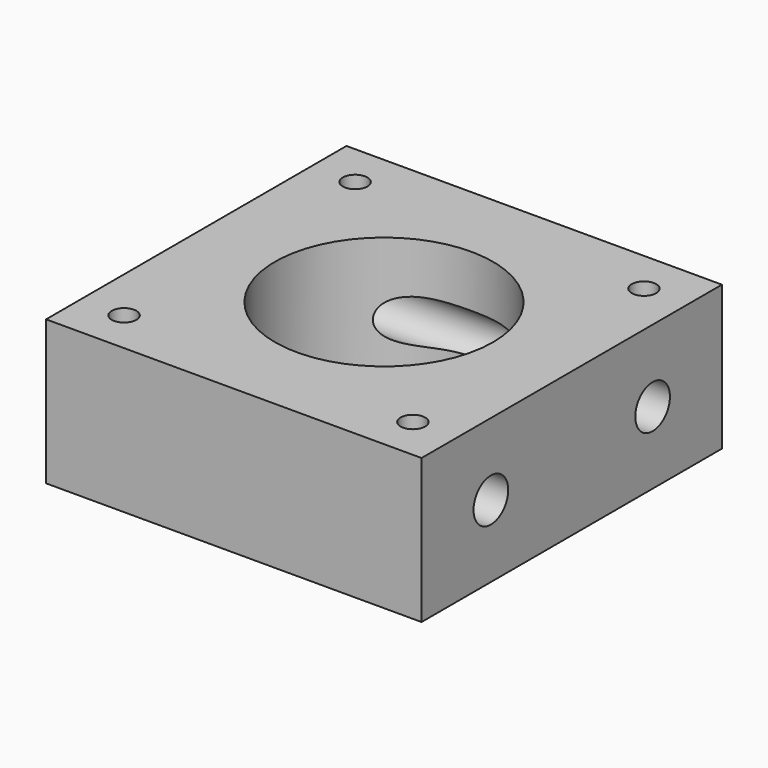
from build123d import *

# Parameters (mm, degrees)
F0_W     = 26
F0_H     = 26
F0_R     = 0.85
F0_R_2   = 7.55
F1_DEPTH = 10
F2_R     = 1.5
F3_DEPTH = 26.001


with BuildPart() as f1:
    # F0 (on Top) → F1 (new body)
    with BuildSketch(Plane.XY):
        Rectangle(F0_W, F0_H)
        with Locations((-10, -10)):
            Circle(F0_R, mode=Mode.SUBTRACT)
        with Locations((10, -10)):
            Circle(F0_R, mode=Mode.SUBTRACT)
        with Locations((-10, 10)):
            Circle(F0_R, mode=Mode.SUBTRACT)
        Circle(F0_R_2, mode=Mode.SUBTRACT)
        with Locations((10, 10)):
            Circle(F0_R, mode=Mode.SUBTRACT)
    extrude(amount=F1_DEPTH)

    # F2 (on face) → F3 (cut, through all)
    with BuildSketch(Plane(origin=(-13, 0, 0), x_dir=(0, -1, 0), z_dir=(-1, 0, 0))):
        with Locations((-7, 5)):
            Circle(F2_R)
        with Locations((7, 5)):
            Circle(F2_R)
    extrude(amount=-F3_DEPTH, mode=Mode.SUBTRACT)


solid = f1.part
